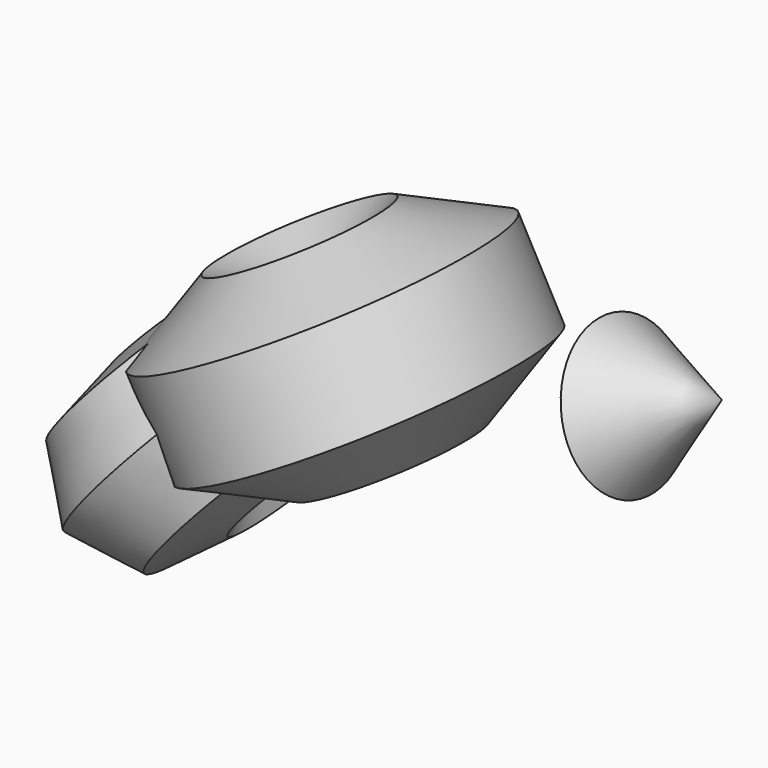
from build123d import *


with BuildPart() as f1:
    # F0 (on Front) → F1 (revolve)
    with BuildSketch(Plane.XZ):
        Polygon((58.8826555872, -1.3444429754), (30.6056495642, 50.3216540931), (-28.277006023, 51.6660970685), (-58.8826555872, 1.3444429754), (-30.6056495642, -50.3216540931), (28.277006023, -51.6660970685), align=None)
    revolve(axis=Axis((44.7441525757, 0, 24.4886055589), (0.4801012767, 0, -0.8772130665)))

    # F2 (on Front) → F3 (revolve)
    with BuildSketch(Plane.XZ):
        Polygon((50.6368376685, -2.0196924611), (33.1506110357, 38.3302162095), (-9.2987018562, 49.8166902804), (-44.7459025915, 23.7901804949), (-46.4985260253, -20.1508204345), (-13.2368109649, -48.9178425749), (29.9924927337, -40.8487315143), align=None)
    revolve(axis=Axis((-29.8676684951, 0, -34.5343315047), (-0.7563616711, 0, 0.6541536689)))


with BuildPart() as f5:
    # F4 (on Front) → F5 (revolve)
    with BuildSketch(Plane.XZ):
        Polygon((276.9330739975, 71.8373954296), (201.2336850166, 91.7969271541), (201.2336850166, 43.0651083589), align=None)
    revolve(axis=Axis((239.0833795071, 0, 57.4512518942), (0.9347568472, 0, 0.3552881035)))


solid = Compound([f1.part, f5.part])
